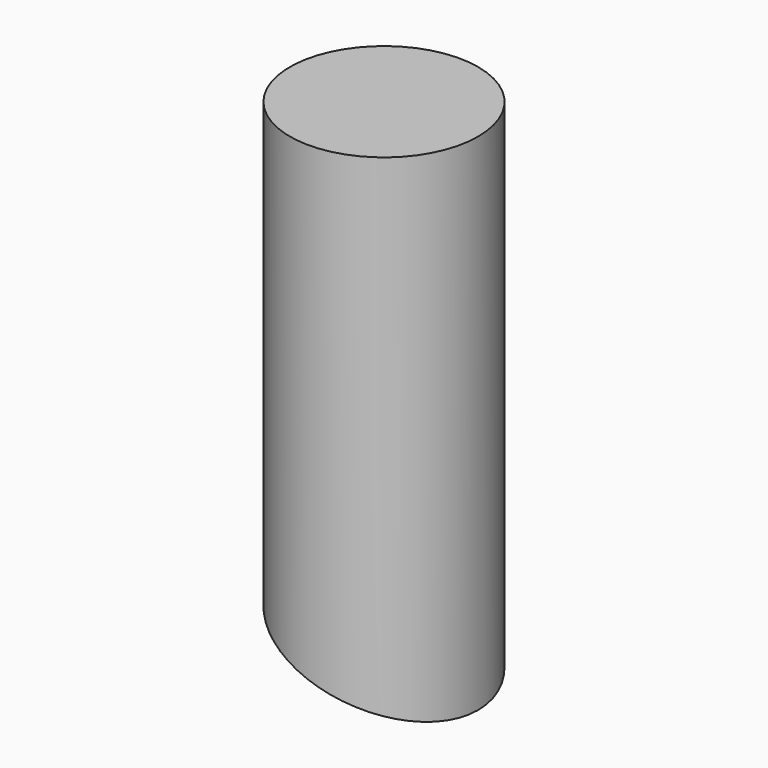
from build123d import *

# Parameters (mm, degrees)
F0_R          = 50.8
F1_DEPTH      = 254
F1_DEPTH_BACK = 254
F3_DEPTH      = 50.801
F3_DEPTH_BACK = 50.801


with BuildPart() as f1:
    # F0 (on Top) → F1 (new body, two sides)
    with BuildSketch(Plane.XY) as f1_sk:
        Circle(F0_R)
    extrude(amount=F1_DEPTH)
    extrude(f1_sk.sketch, amount=-F1_DEPTH_BACK)

    # F2 (on Front) → F3 (cut, two sides)
    with BuildSketch(Plane.XZ) as f3_sk:
        Polygon((122.7458069008, -44.4333617997), (0, 0), (-134.6860029851, 48.7556524422), (-124.8639100347, -294.2718945596), (92.1349055018, -299.8870395277), align=None)
    extrude(amount=-F3_DEPTH, mode=Mode.SUBTRACT)
    extrude(f3_sk.sketch, amount=F3_DEPTH_BACK, mode=Mode.SUBTRACT)


solid = f1.part
